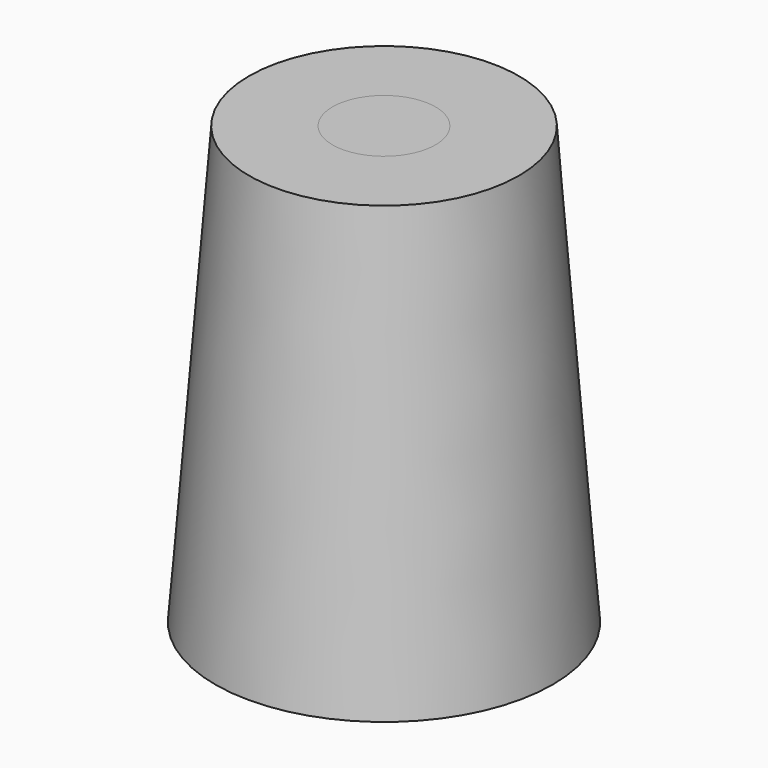
from build123d import *


with BuildPart() as f1:
    # F0 (on Front) → F1 (revolve)
    with BuildSketch(Plane.XZ):
        Polygon((-31.25, 0), (0, 0), (0, 165), (-18.5, 165), align=None)
    revolve(axis=Axis((0, 0, 82.5), (0, 0, -1)))


with BuildPart() as f3:
    # F2 (on Front) → F3 (revolve)
    with BuildSketch(Plane.XZ):
        Polygon((-60.631818, 8), (-30.631818, 8), (-18.5, 165), (-48.5, 165), align=None)
    revolve(axis=Axis((0, 0, 86.5), (0, 0, -1)))


solid = Compound([f1.part, f3.part])
